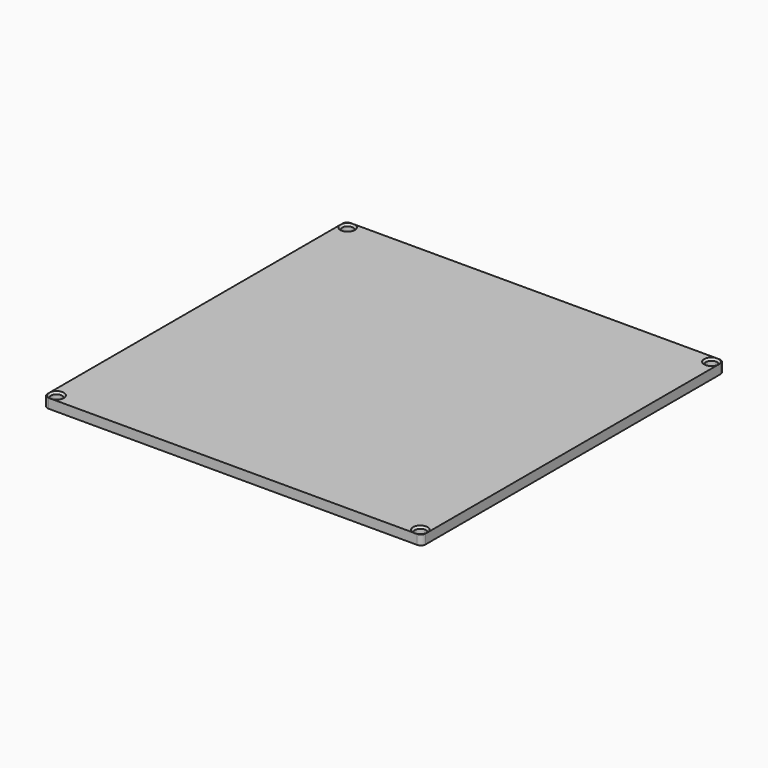
from build123d import *

# Parameters (mm, degrees)
PAD_DEPTH        = 4
HOLE_D           = 4.5
HOLE_DEPTH       = 4
HOLE_CSINK_D     = 6.1
HOLE_CSINK_ANGLE = 90
HOLE_TIPS_R      = 2.25


with BuildPart() as part:
    # Sketch → Pad (new body)
    with BuildSketch(Plane.XY):
        with BuildLine():
            Line((-77, 79), (77, 79))
            ThreePointArc((79, 77), (78.414214, 78.414214), (77, 79))
            Line((79, 77), (79, -77))
            ThreePointArc((77, -79), (78.414214, -78.414214), (79, -77))
            Line((77, -79), (-77, -79))
            ThreePointArc((-79, -77), (-78.414214, -78.414214), (-77, -79))
            Line((-79, -77), (-79, 77))
            ThreePointArc((-77, 79), (-78.414214, 78.414214), (-79, 77))
        make_face()
    extrude(amount=PAD_DEPTH)

    # Hole
    with Locations(Plane.XY.offset(4)):
        with Locations((-76, 76), (76, 76), (76, -76), (-76, -76)):
            CounterSinkHole(HOLE_D / 2, HOLE_CSINK_D / 2, depth=HOLE_DEPTH, counter_sink_angle=HOLE_CSINK_ANGLE)

    # Hole tips → Hole tip 1 section 0
    with BuildSketch(Plane.XY, mode=Mode.PRIVATE) as hole_tip_1_s0:
        with Locations((-76, 76)):
            Circle(HOLE_TIPS_R)
    loft([hole_tip_1_s0.sketch, Vertex(-76, 76, -1.351936)], mode=Mode.SUBTRACT)

    # Hole tips → Hole tip 2 section 0
    with BuildSketch(Plane.XY, mode=Mode.PRIVATE) as hole_tip_2_s0:
        with Locations((76, 76)):
            Circle(HOLE_TIPS_R)
    loft([hole_tip_2_s0.sketch, Vertex(76, 76, -1.351936)], mode=Mode.SUBTRACT)

    # Hole tips → Hole tip 3 section 0
    with BuildSketch(Plane.XY, mode=Mode.PRIVATE) as hole_tip_3_s0:
        with Locations((76, -76)):
            Circle(HOLE_TIPS_R)
    loft([hole_tip_3_s0.sketch, Vertex(76, -76, -1.351936)], mode=Mode.SUBTRACT)

    # Hole tips → Hole tip 4 section 0
    with BuildSketch(Plane.XY, mode=Mode.PRIVATE) as hole_tip_4_s0:
        with Locations((-76, -76)):
            Circle(HOLE_TIPS_R)
    loft([hole_tip_4_s0.sketch, Vertex(-76, -76, -1.351936)], mode=Mode.SUBTRACT)


solid = part.part
